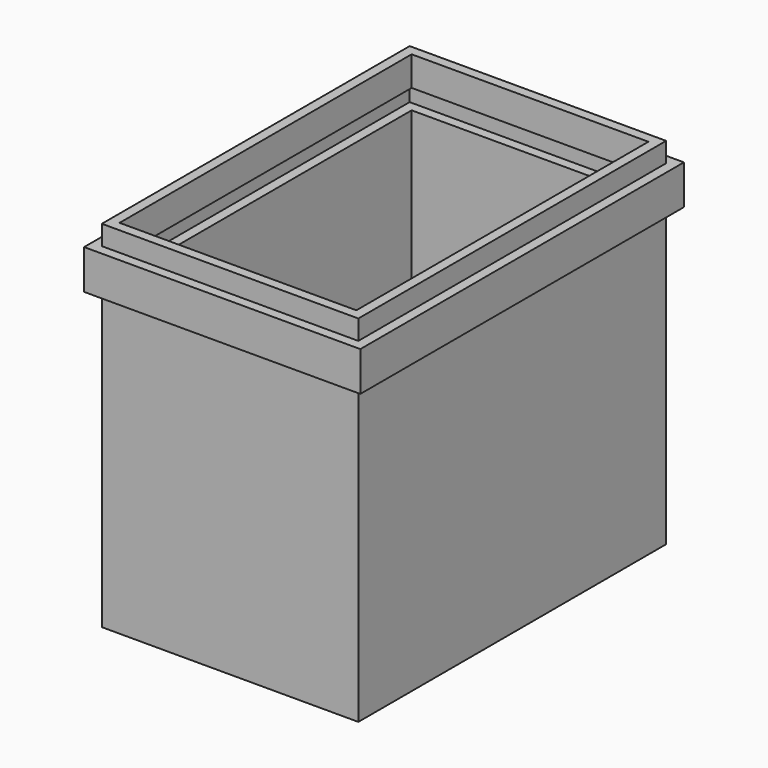
from build123d import *

# Parameters (mm, degrees)
F0_W     = 130
F0_H     = 195
F2_DEPTH = 180
F3_START = 150
F1_W     = 139.9999979138
F1_H     = 204.9999979138
F3_DEPTH = 20
F4_T     = -5


with BuildPart() as f2:
    # F0 (on Top) → F2 (new body)
    with BuildSketch(Plane.XY):
        Rectangle(F0_W, F0_H)
    extrude(amount=F2_DEPTH)

    # F1 (on face) → F3 (join)
    with BuildSketch(Plane.XY.offset(F3_START)):
        Rectangle(F1_W, F1_H)
    extrude(amount=F3_DEPTH)

    # F4
    f4_openings = [f2.faces().sort_by_distance(p)[0] for p in [
        (0, 0, 180),
    ]]
    offset(amount=F4_T, openings=f4_openings, kind=Kind.INTERSECTION)


solid = f2.part
